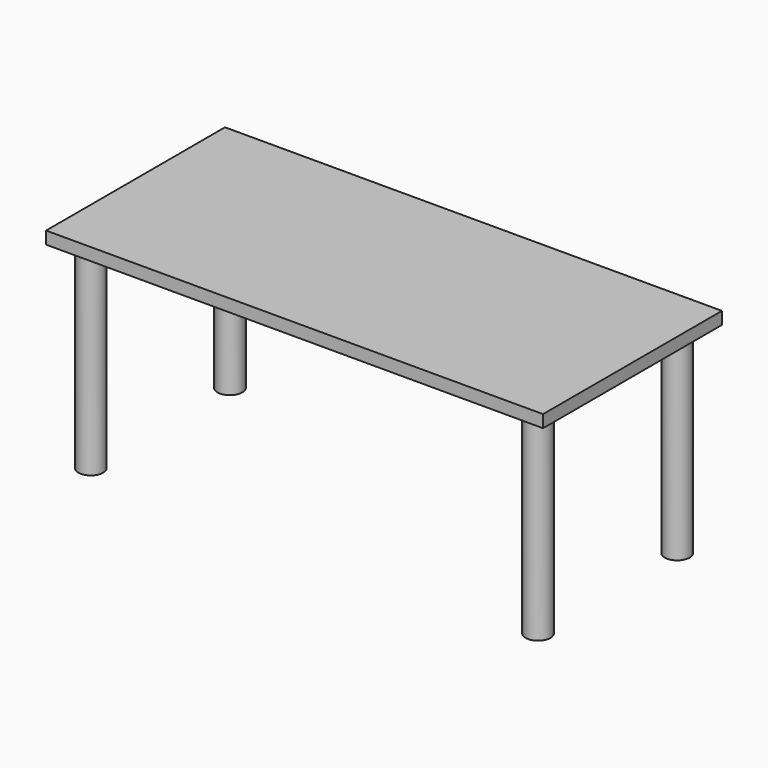
from build123d import *

# Parameters (mm, degrees)
SKETCH_W     = 2000
SKETCH_H     = 900
PAD_DEPTH    = 50
SKETCH001_R  = 50
PAD001_DEPTH = 800


with BuildPart() as part:
    # Sketch → Pad (new body)
    with BuildSketch(Plane.XY):
        with Locations((1000, 450)):
            Rectangle(SKETCH_W, SKETCH_H)
    extrude(amount=PAD_DEPTH)

    # Sketch001 (on Face5 of Pad) → Pad001 (join)
    with BuildSketch(Plane(origin=(0, 0, 0), x_dir=(1, 0, 0), z_dir=(0, 0, -1))):
        with Locations((100, -100)):
            Circle(SKETCH001_R)
        with Locations((1900, -100)):
            Circle(SKETCH001_R)
        with Locations((1900, -800)):
            Circle(SKETCH001_R)
        with Locations((100, -800)):
            Circle(SKETCH001_R)
    extrude(amount=PAD001_DEPTH)


solid = part.part
